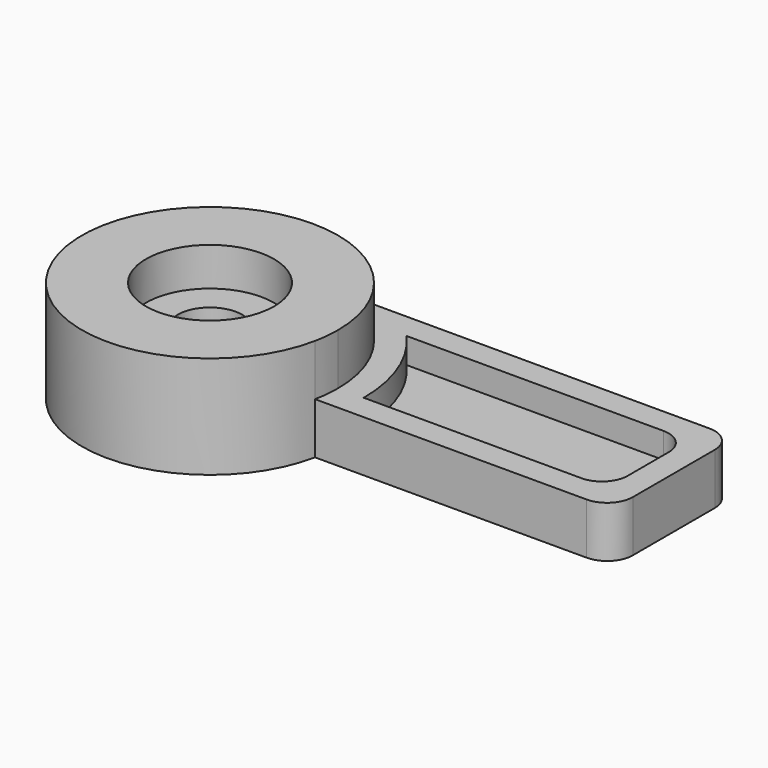
from build123d import *

# Parameters (mm, degrees)
F1_DEPTH = 20
F2_DEPTH = 40
F3_R     = 25
F4_DEPTH = 15
F5_R     = 12.5
F6_DEPTH = 10
F8_DEPTH = 10
F9_R     = 10


with BuildPart() as f1:
    # F0 (on Top) → F1 (new body)
    with BuildSketch(Plane.XY):
        with BuildLine():
            ThreePointArc((0, 50), (35.355339, 35.355339), (50, 0))
            ThreePointArc((50, 0), (49.746808, -5.025448), (48.989795, -10))
            Line((48.989795, -10), (165, -10))
            Line((165, -10), (165, 50))
            Line((165, 50), (0, 50))
        make_face()
    extrude(amount=F1_DEPTH)

    # F0 (on Top) → F2 (join)
    with BuildSketch(Plane.XY):
        with BuildLine():
            Line((0, -10), (0, 50))
            ThreePointArc((0, 50), (-38.729833, -31.622777), (48.989795, -10))
            Line((48.989795, -10), (0, -10))
        make_face()
        with BuildLine():
            ThreePointArc((48.989795, -10), (49.746808, -5.025448), (50, 0))
            ThreePointArc((50, 0), (35.355339, 35.355339), (0, 50))
            Line((0, 50), (0, -10))
            Line((0, -10), (48.989795, -10))
        make_face()
    extrude(amount=F2_DEPTH)

    # F3 (on face) → F4 (cut)
    with BuildSketch(Plane.XY.offset(40)):
        Circle(F3_R)
    extrude(amount=-F4_DEPTH, mode=Mode.SUBTRACT)

    # F5 (on face) → F6 (cut)
    with BuildSketch(Plane.XY.offset(25)):
        Circle(F5_R)
    extrude(amount=-F6_DEPTH, mode=Mode.SUBTRACT)

    # F7 (on face) → F8 (cut)
    with BuildSketch(Plane.XY.offset(20)):
        with BuildLine():
            Line((155, 0), (155, 40))
            Line((155, 40), (44.72136, 40))
            ThreePointArc((44.72136, 40), (56.050342, 21.409325), (60, 0))
            Line((60, 0), (155, 0))
        make_face()
    extrude(amount=-F8_DEPTH, mode=Mode.SUBTRACT)

    # F9
    f9_edges = [f1.edges().sort_by_distance(p)[0] for p in [
        (165, 50, 10),
        (165, -10, 10),
        (155, 40, 15),
        (155, 0, 15),
    ]]
    fillet(f9_edges, radius=F9_R)


solid = f1.part
